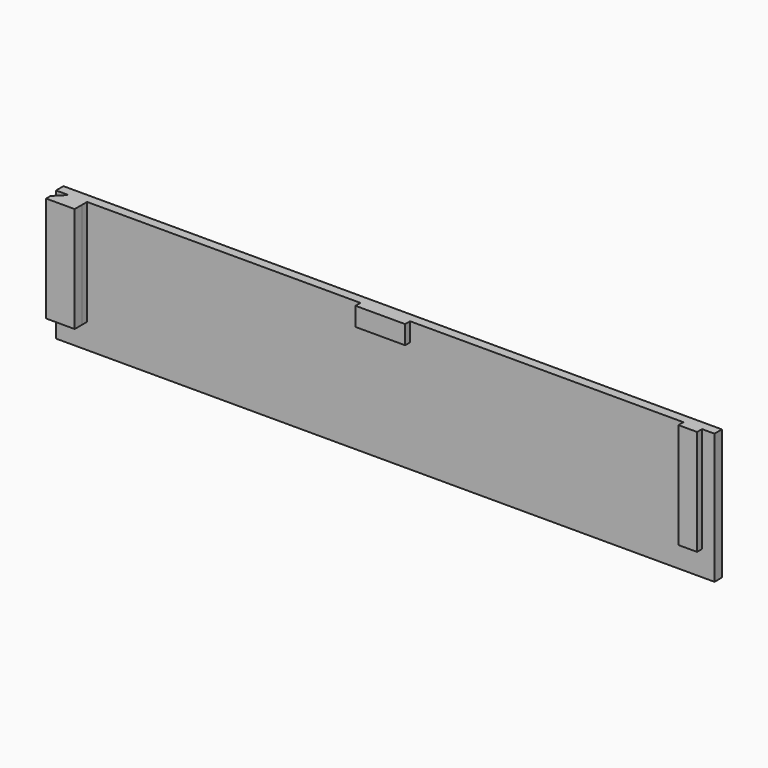
from build123d import *

# Parameters (mm, degrees)
SKETCH026_W   = 106
SKETCH026_H   = 21
PAD_DEPTH     = 1.5
SKETCH027_W   = 3
SKETCH027_H   = 17
SKETCH027_W_2 = 8
SKETCH027_H_2 = 3
PAD012_DEPTH  = 1
PAD014_DEPTH  = 17


with BuildPart() as part:
    # Sketch026 → Pad (new body)
    with BuildSketch(Plane.XZ.offset(-104)):
        with Locations((-96, 16.5)):
            Rectangle(SKETCH026_W, SKETCH026_H)
    extrude(amount=PAD_DEPTH)

    # Sketch027 (on Face6 of Pad) → Pad012 (join)
    with BuildSketch(Plane.XZ.offset(-102.5)):
        with Locations((-145.5, 18.5)):
            Rectangle(SKETCH027_W, SKETCH027_H)
        with Locations((-46.5, 18.5)):
            Rectangle(SKETCH027_W, SKETCH027_H)
        with Locations((-96, 25.5)):
            Rectangle(SKETCH027_W_2, SKETCH027_H_2)
    extrude(amount=PAD012_DEPTH)

    # Sketch030 (on Face13 of Pad012) → Pad014 (join)
    with BuildSketch(Plane(origin=(0, 0, 10), x_dir=(1, 0, 0), z_dir=(0, 0, -1))):
        Polygon((-147.000002, -102.500002), (-148.600002, -100.900002), (-148.600002, -100.000001), (-144, -100), (-144.000002, -102.500002), align=None)
    extrude(amount=-PAD014_DEPTH)


with BuildPart() as part_1:
    # Body011 placement: moved
    add(part.part.moved(Location((192, 0, 0))))


solid = part_1.part
